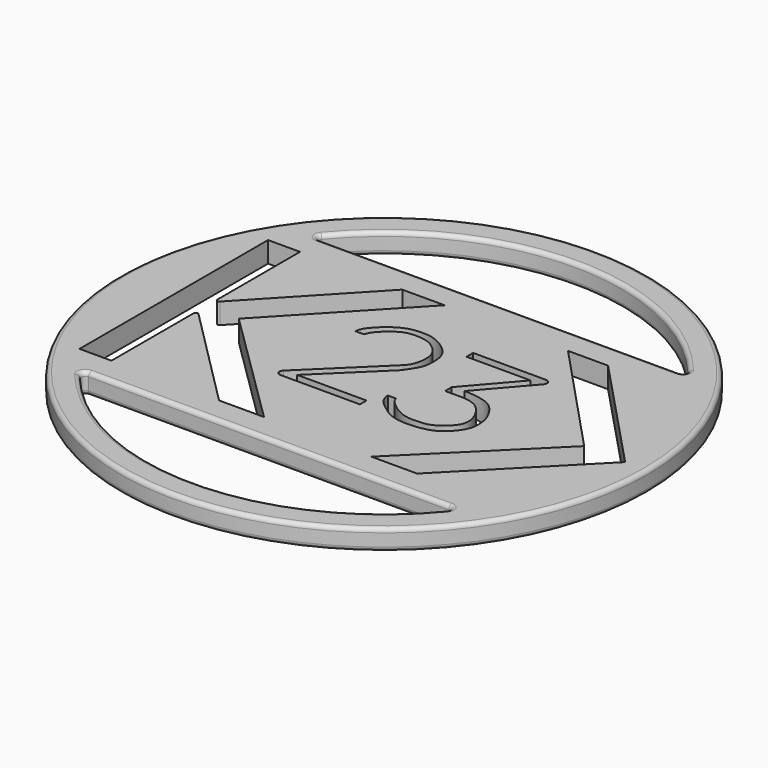
from build123d import *

# Parameters (mm, degrees)
F0_R     = 31.75
F1_DEPTH = 2.5
F2_R     = 0.5


with BuildPart() as f1:
    # F0 (on Top) → F1 (new body)
    with BuildSketch(Plane.XY):
        with Locations((-3.2082523414, -0.3199315106)):
            Circle(F0_R)
        with BuildLine():
            ThreePointArc((18.8403281867, -18.4965847146), (-3.2082523414, -28.8949315106), (-25.2568328695, -18.4965847146))
            ThreePointArc((-25.2568328695, -18.4965847146), (-25.3243248469, -17.9567547749), (-24.8648581045, -17.6654442132))
            Line((-24.8648581045, -17.6654442132), (18.4483534217, -17.6654442132))
            ThreePointArc((18.4483534217, -17.6654442132), (18.9078201641, -17.9567547749), (18.8403281867, -18.4965847146))
        make_face(mode=Mode.SUBTRACT)
        with BuildLine():
            Line((-24.6636290103, -14.4904442132), (-28.5082730394, -14.4904442132))
            Line((-28.5082730394, -14.4904442132), (-28.5082730394, 13.8578880578))
            Line((-28.5082730394, 13.8578880578), (-24.6636290103, 13.8578880578))
            Line((-24.6636290103, 13.8578880578), (-24.6636290103, 1.4344807386))
            ThreePointArc((-24.6636290103, 1.4344807386), (-24.503290482, 1.1983800636), (-24.2247035874, 1.2603584025))
            Line((-24.2247035874, 1.2603584025), (-12.3631041497, 13.8578880578))
            Line((-12.3631041497, 13.8578880578), (-7.2751441039, 13.8578880578))
            Line((-7.2751441039, 13.8578880578), (-20.6629838794, -0.350161019))
            Line((-20.6629838794, -0.350161019), (-6.3184956089, -14.4904442132))
            Line((-6.3184956089, -14.4904442132), (-11.7262406275, -14.4904442132))
            Line((-11.7262406275, -14.4904442132), (-24.2297812599, -1.9530529503))
            ThreePointArc((-24.2297812599, -1.9530529503), (-24.5066719683, -1.8976840697), (-24.6636290103, -2.1324151164))
            Line((-24.6636290103, -2.1324151164), (-24.6636290103, -14.4904442132))
        make_face(mode=Mode.SUBTRACT)
        with BuildLine():
            Line((-0.8884655545, -5.856131833), (-0.8884655545, -6.856131833))
            Line((-0.8884655545, -6.856131833), (-10.4477728416, -6.856131833))
            ThreePointArc((-10.4477728416, -6.856131833), (-10.9183258105, -6.5395578069), (-10.8024030004, -5.9843991696))
            Line((-10.8024030004, -5.9843991696), (-2.7141517494, 1.9014414866))
            add(Edge.make_bspline(
                [(-2.7141517494, 1.9014414866), (-2.4442072689, 2.1772513645), (-2.1303435458, 2.6393397302), (-1.8701166164, 3.5083037841), (-1.8042602145, 4.7443401395), (-2.1359625095, 5.7150039927), (-2.9495657379, 6.6008771772), (-4.053506575, 7.2414545885), (-5.3977733042, 7.3792332505), (-6.5144848928, 7.3111502788), (-7.421667254, 6.8851165946), (-8.4181124243, 6.09386894), (-9.1516781638, 5.3615640007), (-9.4023551981, 4.7812554911), (-9.5228757709, 4.5022442937)],
                knots=[0, 0, 0, 0, 0.0777716176, 0.1525772623, 0.2407062995, 0.3208838627, 0.4070461152, 0.4968929668, 0.5893793296, 0.6730011837, 0.7522191079, 0.8422857258, 0.9236075646, 1, 1, 1, 1], degree=3))
            Line((-9.5228757709, 4.5022442937), (-10.5228757709, 4.5022442937))
            add(Edge.make_bspline(
                [(-10.5228757709, 4.5022442937), (-10.4908648253, 4.7080925284), (-10.4213770955, 5.1560439877), (-9.8975507524, 5.8875232355), (-9.0187197273, 6.8344096055), (-8.1674075012, 7.4161676766), (-7.0984056874, 8.0102215861), (-6.0587899923, 8.160503116), (-5.0995244369, 8.2169323807), (-3.8584118628, 8.0620687419), (-2.712434291, 7.4345991257), (-1.9402276502, 6.8681116088), (-1.1048208261, 5.8955089512), (-0.8792805901, 4.7233217895), (-0.9109868983, 3.4570786662), (-1.1554754003, 2.5577886921), (-1.8687046246, 1.4305560249), (-2.334741218, 0.8747270325)],
                knots=[0, 0, 0, 0, 0.0499471301, 0.1091397519, 0.1804215081, 0.2449513234, 0.3137047776, 0.3776027552, 0.438928529, 0.5089179669, 0.5801119853, 0.6419666187, 0.7113707942, 0.7801545863, 0.849417254, 0.9099237356, 1, 1, 1, 1], degree=3))
            Line((-2.334741218, 0.8747270325), (-9.2383650691, -5.856131833))
            Line((-9.2383650691, -5.856131833), (-0.8884655545, -5.856131833))
        make_face(mode=Mode.SUBTRACT)
        with BuildLine():
            Line((0.8739705081, 6.9625956714), (0.8739705081, 7.9625956714))
            Line((0.8739705081, 7.9625956714), (9.6595763559, 7.9625956714))
            ThreePointArc((9.6595763559, 7.9625956714), (10.1215979229, 7.6657829616), (10.0437223511, 7.1221865043))
            Line((10.0437223511, 7.1221865043), (9.3394042439, 6.3082469173))
            Line((9.3394042439, 6.3082469173), (5.0849091954, 1.3915737438))
            add(Edge.make_bspline(
                [(0.0202346602, -3.8010592107), (0.0322960824, -4.0683558874), (0.1953113753, -4.6398705329), (0.6236121458, -5.2591682706), (1.4466625388, -5.9075488009), (2.6171543427, -6.7754885672), (4.0203703656, -7.2005349667), (6.2791906462, -7.1938064326), (8.3353331566, -6.6491203947), (9.668921225, -5.2505931707), (10.4028128472, -4.0189759901), (10.3827422952, -2.3406826014), (9.9804275248, -1.1053490479), (8.9555702424, 0.4776891253), (7.6804318437, 1.1118851744), (6.0978167807, 1.3975900559), (5.396042744, 1.3934217174), (5.0849091954, 1.3915737438)],
                knots=[0, 0, 0, 0, 0.0511129754, 0.0990891446, 0.1559622878, 0.2229057363, 0.2902636551, 0.373846771, 0.4552028401, 0.5311912045, 0.5975458909, 0.6677145395, 0.7322717578, 0.8071985683, 0.8739396412, 0.9441260045, 1, 1, 1, 1], degree=3))
            Line((0.0202346602, -3.8010592107), (1.0202346602, -3.8010592107))
            add(Edge.make_bspline(
                [(5.9777954593, 0.2674500211), (6.2338162728, 0.2307901879), (6.7692291607, 0.1541240459), (7.6710662593, -0.1970550881), (8.3065406831, -0.8602142971), (8.8262473387, -1.6238894869), (9.2959222383, -2.7239824373), (9.2319564408, -4.095671291), (8.1744088816, -5.1893297553), (6.9975566837, -6.0226376821), (5.7460518378, -6.2034693749), (3.9090852134, -6.2200128267), (2.4519759638, -5.4275062724), (1.331173038, -4.4869114459), (1.0988605209, -4.0907645598), (1.0202346602, -3.8010592107)],
                knots=[0, 0, 0, 0, 0.0629071045, 0.1315027411, 0.1983181189, 0.2658748322, 0.3423216722, 0.4222263447, 0.5078476883, 0.5914521489, 0.6701043426, 0.7643463369, 0.8560118243, 0.9390366353, 1, 1, 1, 1], degree=3))
            Line((5.9777954593, 0.2674500211), (3.65508858, 0.2674500211))
            Line((3.65508858, 0.2674500211), (3.65508858, 1.2674500211))
            Line((3.65508858, 1.2674500211), (8.58321134, 6.9625956714))
            Line((8.58321134, 6.9625956714), (0.8739705081, 6.9625956714))
        make_face(mode=Mode.SUBTRACT)
        Polygon((7.5713158585, 13.8578880578), (12.3925637454, 13.8578880578), (25.9017683566, -0.4594006168), (12.1023049578, -14.4904442132), (6.5929917619, -14.4904442132), (20.8660047501, -0.3235849435), align=None, mode=Mode.SUBTRACT)
        with BuildLine():
            Line((18.4423276357, 17.0328880578), (-24.8588323185, 17.0328880578))
            ThreePointArc((-24.8588323185, 17.0328880578), (-25.3183356146, 17.3242761447), (-25.2506980194, 17.8641608102))
            ThreePointArc((-25.2506980194, 17.8641608102), (-3.2082523414, 28.2550684894), (18.8341933366, 17.8641608102))
            ThreePointArc((18.8341933366, 17.8641608102), (18.9018309318, 17.3242761447), (18.4423276357, 17.0328880578))
        make_face(mode=Mode.SUBTRACT)
    extrude(amount=F1_DEPTH)

    # F2
    f2_edges = [f1.edges().sort_by_distance(p)[0] for p in [
        (-34.958252, -0.319932, 2.5),
        (-3.208252, -17.665444, 2.5),
        (-3.208252, 17.032888, 2.5),
        (-34.958252, -0.319932, 0),
        (-3.208252, -28.894932, 0),
        (-3.208252, 28.255068, 0),
    ]]
    fillet(f2_edges, radius=F2_R)


solid = f1.part
